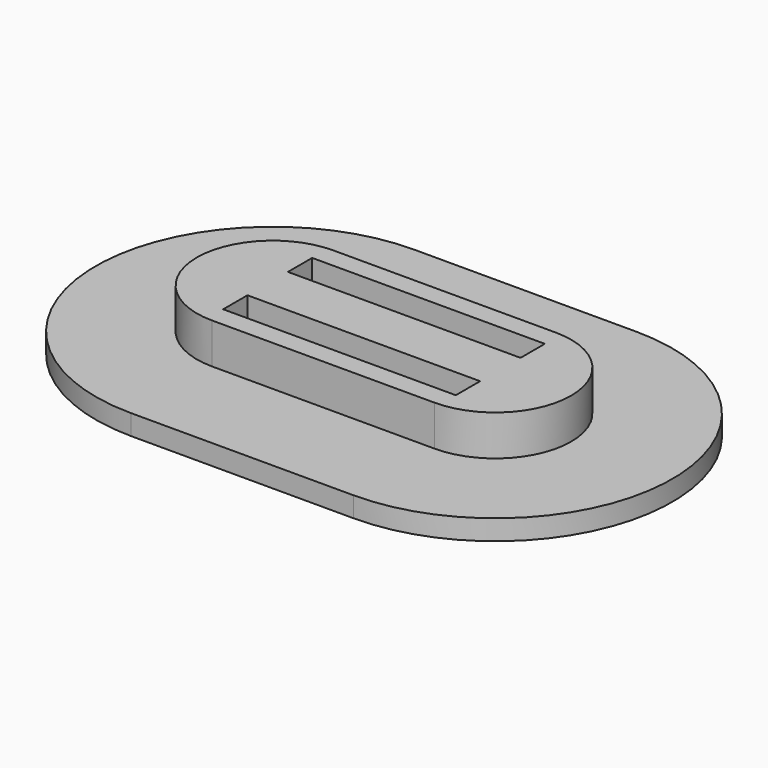
from build123d import *

# Parameters (mm, degrees)
F0_W     = 23
F0_H     = 3
F1_DEPTH = 2
F2_DEPTH = 6


with BuildPart() as f1:
    # F0 (on Top) → F1 (new body)
    with BuildSketch(Plane.XY):
        with BuildLine():
            Line((-11, -7.5), (11, -7.5))
            ThreePointArc((11, -7.5), (18.5, 0), (11, 7.5))
            Line((11, 7.5), (-11, 7.5))
            ThreePointArc((-11, 7.5), (-18.5, 0), (-11, -7.5))
        make_face()
        with Locations((0, -4)):
            Rectangle(F0_W, F0_H, mode=Mode.SUBTRACT)
        with Locations((0, 4)):
            Rectangle(F0_W, F0_H, mode=Mode.SUBTRACT)
        with BuildLine():
            Line((11, 17.5), (-11, 17.5))
            ThreePointArc((-11, 17.5), (-28.5, 0), (-11, -17.5))
            Line((-11, -17.5), (11, -17.5))
            ThreePointArc((11, -17.5), (28.5, 0), (11, 17.5))
        make_face()
        with BuildLine():
            ThreePointArc((11, 7.5), (18.5, 0), (11, -7.5))
            Line((11, -7.5), (-11, -7.5))
            ThreePointArc((-11, -7.5), (-18.5, 0), (-11, 7.5))
            Line((-11, 7.5), (11, 7.5))
        make_face(mode=Mode.SUBTRACT)
    extrude(amount=F1_DEPTH)

    # F0 (on Top) → F2 (join)
    with BuildSketch(Plane.XY):
        with BuildLine():
            Line((-11, -7.5), (11, -7.5))
            ThreePointArc((11, -7.5), (18.5, 0), (11, 7.5))
            Line((11, 7.5), (-11, 7.5))
            ThreePointArc((-11, 7.5), (-18.5, 0), (-11, -7.5))
        make_face()
        with Locations((0, -4)):
            Rectangle(F0_W, F0_H, mode=Mode.SUBTRACT)
        with Locations((0, 4)):
            Rectangle(F0_W, F0_H, mode=Mode.SUBTRACT)
    extrude(amount=F2_DEPTH)


solid = f1.part
